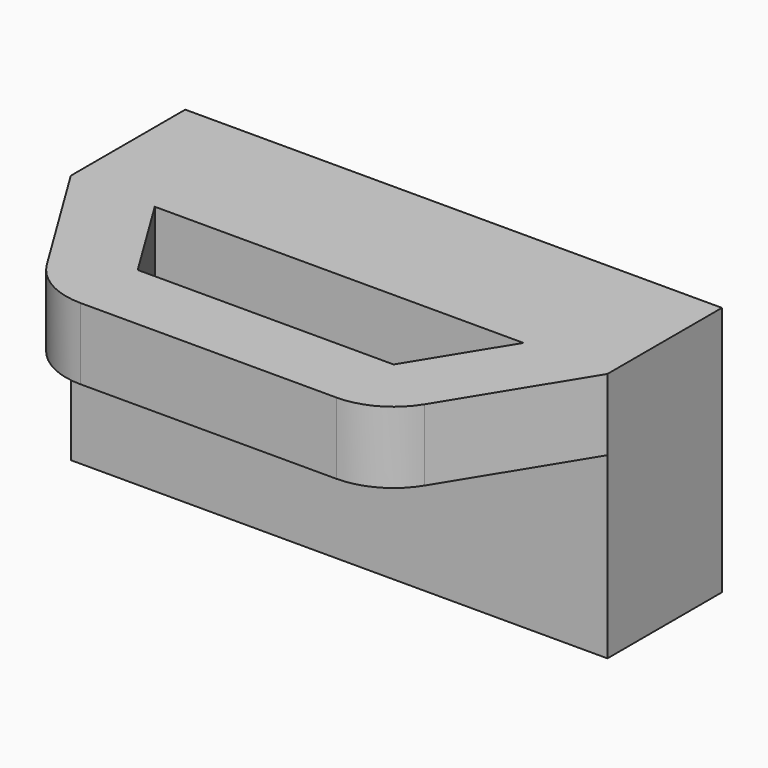
from build123d import *

# Parameters (mm, degrees)
F1_DEPTH = 25
F2_DEPTH = 10


with BuildPart() as f1:
    # F0 (on Top) → F1 (new body)
    with BuildSketch(Plane.XY):
        Polygon((0, 20), (0, 0), (11.736397, 0), (37.5, 0), (63.263603, 0), (75, 0), (75, 20), align=None)
    extrude(amount=-F1_DEPTH)

    # F0 (on Top) → F2 (join)
    with BuildSketch(Plane.XY):
        Polygon((0, 20), (0, 0), (11.736397, 0), (37.5, 0), (63.263603, 0), (75, 0), (75, 20), align=None)
        with BuildLine():
            Line((11.736397, 0), (0, 0))
            Line((0, 0), (11.099959, -18.06771))
            ThreePointArc((11.099959, -18.06771), (14.73917, -21.560825), (19.620461, -22.833111))
            Line((19.620461, -22.833111), (37.5, -22.833111))
            Line((37.5, -22.833111), (37.5, -12.833111))
            Line((37.5, -12.833111), (19.620461, -12.833111))
            Line((19.620461, -12.833111), (11.736397, 0))
        make_face()
        with BuildLine():
            Line((75, 0), (63.263603, 0))
            Line((63.263603, 0), (55.379539, -12.833111))
            Line((55.379539, -12.833111), (37.5, -12.833111))
            Line((37.5, -12.833111), (37.5, -22.833111))
            Line((37.5, -22.833111), (55.379539, -22.833111))
            ThreePointArc((55.379539, -22.833111), (60.26083, -21.560825), (63.900041, -18.06771))
            Line((63.900041, -18.06771), (75, 0))
        make_face()
    extrude(amount=F2_DEPTH)


solid = f1.part
